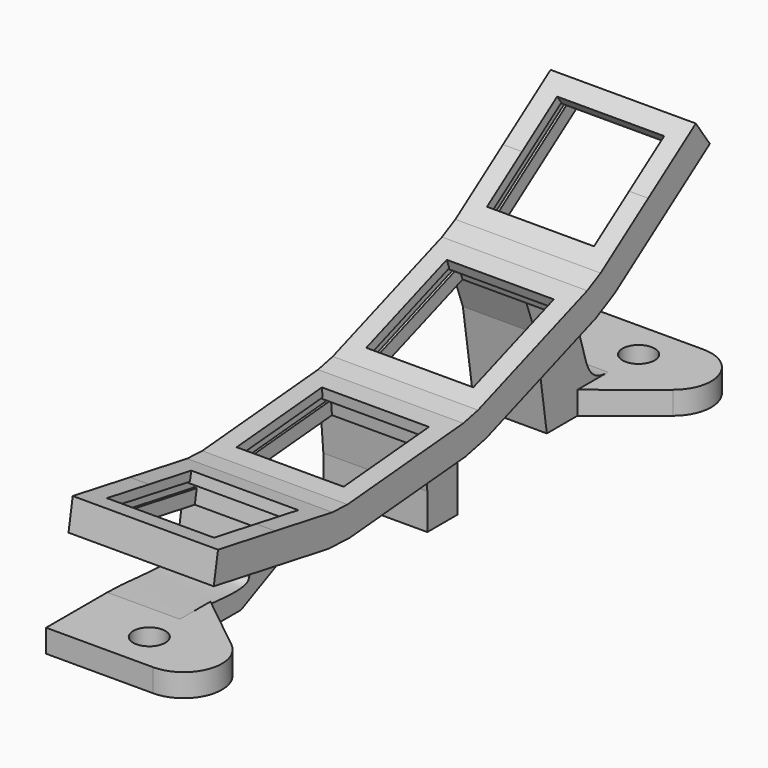
from build123d import *

# Parameters (mm, degrees)
PAD016_DEPTH      = 9.5
POCKET008_DEPTH   = 7
POCKET009_DEPTH   = 7.3
PAD017_DEPTH      = 4.1
PAD017_DEPTH_BACK = 9.5
PAD018_DEPTH      = 9.5
SKETCH031_R       = 2.1
PAD019_DEPTH      = 3


with BuildPart() as part:
    # Sketch026 → Pad016 (new body, symmetric)
    with BuildSketch(Plane.YZ):
        Polygon((47.4801846947, 33.7107123063), (39.698240274, 28.2617361609), (31.9162958532, 22.8127600156), (29.7273220428, 21.6732523754), (20.8002421453, 18.4240610138), (11.8731622478, 15.1748696522), (9.4638496319, 14.6407379046), (0, 13.8127583485), (-9.4638496319, 12.9847787924), (-11.9293103801, 13.0924231333), (-21.2849840337, 14.7420808212), (-30.6406576873, 16.391738509), (-31.335250398, 12.452507497), (-12.6239030908, 9.1531921213), (-9.1152266609, 9), (9.8124726029, 10.6559591122), (13.2412428211, 11.416099169), (31.0954026161, 17.9144818922), (34.2106015986, 19.5361518385), (49.7744904401, 30.4341041291), align=None)
    extrude(amount=PAD016_DEPTH, both=True)

    # Sketch027 → Pocket008 (cut, symmetric)
    with BuildSketch(Plane.YZ):
        Polygon((-28.1786383048, 15.9576180648), (-21.2849840337, 14.7420808212), (-14.3913297626, 13.5265435775), (-14.6344372114, 12.1478127233), (-13.3541871324, 11.9220700923), (-13.8056723944, 9.3615699345), (-21.9795767444, 10.8028498091), (-30.1534810944, 12.2441296838), (-29.7019958324, 14.8046298416), (-28.4217457535, 14.5788872106), align=None)
        Polygon((-6.9733628866, 13.2026681492), (0, 13.8127583485), (6.9733628866, 14.4228485477), (7.0953809265, 13.0281759704), (8.390434034, 13.1414784359), (8.6170389652, 10.5513722209), (0.348622971, 9.8279795561), (-7.9197930232, 9.1045868913), (-8.1463979543, 11.6946931063), (-6.8513448468, 11.8079955719), align=None)
        Polygon((14.2223937998, 16.0299200105), (20.8002421453, 18.4240610138), (27.3780904908, 20.818202017), (27.8569186914, 19.5026323479), (29.0785190985, 19.9472585343), (29.9677714711, 17.5040577202), (22.1683227186, 14.6652905306), (14.3688739661, 11.826523341), (13.4796215934, 14.2697241551), (14.7012220004, 14.7143503414), align=None)
        Polygon((33.964175964, 24.2467011065), (39.698240274, 28.2617361609), (45.432304584, 32.2767712154), (46.2353115949, 31.1299583534), (47.3002092525, 31.8756077207), (48.791507987, 29.7458124055), (41.9925460194, 24.9851279838), (35.1935840518, 20.2244435621), (33.7022853173, 22.3542388772), (34.7671829748, 23.0998882445), align=None)
    extrude(amount=POCKET008_DEPTH, both=True, mode=Mode.SUBTRACT)

    # Sketch028 → Pocket009 (cut, symmetric)
    with BuildSketch(Plane.YZ):
        Polygon((-28.387016118, 14.7758487612), (-14.5997075758, 12.3447742739), (-14.6344372114, 12.1478127233), (-13.3541871324, 11.9220700923), (-13.4931056746, 11.1342238899), (-29.8409143746, 14.0167836392), (-29.7019958324, 14.8046298416), (-28.4217457535, 14.5788872106), align=None)
        Polygon((-6.8687759953, 12.0072345115), (7.0779497779, 13.22741491), (7.0953809265, 13.0281759704), (8.390434034, 13.1414784359), (8.4601586282, 12.3445226775), (-8.0766733601, 10.8977373479), (-8.1463979543, 11.6946931063), (-6.8513448468, 11.8079955719), align=None)
        Polygon((14.6328179718, 14.9022888655), (27.7885146628, 19.6905708721), (27.8569186914, 19.5026323479), (29.0785190985, 19.9472585343), (29.3521352131, 19.1955044376), (13.7532377081, 13.5179700584), (13.4796215934, 14.2697241551), (14.7012220004, 14.7143503414), align=None)
        Polygon((34.6524676876, 23.2637186533), (46.1205963076, 31.2937887623), (46.2353115949, 31.1299583534), (47.3002092525, 31.8756077207), (47.7590704016, 31.2202860852), (34.1611464664, 21.6989172418), (33.7022853173, 22.3542388772), (34.7671829748, 23.0998882445), align=None)
    extrude(amount=POCKET009_DEPTH, both=True, mode=Mode.SUBTRACT)

    # Sketch029 → Pad017 (join, two sides)
    with BuildSketch(Plane.YZ) as pad017_sk:
        Polygon((9.4638496319, 14.6407379046), (9.8124726029, 10.6559591122), (10.3354070593, 4.6787909237), (10.3354070593, 0), (15.2933636811, 0), (15.2933636811, 5.7779434443), (13.2412428211, 11.416099169), (11.8731622478, 15.1748696522), align=None)
    extrude(amount=PAD017_DEPTH)
    extrude(pad017_sk.sketch, amount=-PAD017_DEPTH_BACK)

    # Sketch030 → Pad018 (join)
    with BuildSketch(Plane.YZ):
        with BuildLine():
            Line((-13.6657921568, 3.2443456032), (-12.6239030908, 9.1531921213))
            Line((-12.6239030908, 9.1531921213), (-11.9293103801, 13.0924231333))
            Line((-11.9293103801, 13.0924231333), (-9.4638496319, 12.9847787924))
            Line((-9.4638496319, 12.9847787924), (-9.1152266609, 9))
            Line((-9.1152266609, 9), (-8.5922922044, 3.0228318114))
            Line((-8.5922922044, 3.0228318114), (-15, 0))
            Line((-15, 0), (-25, 0))
            Line((-25, 0), (-25, 3))
            add(Edge.make_bspline(
                [(-13.6657921568, 3.2443456032), (-13.9496356176, 1.6345893441), (-20, 3), (-25, 3)],
                knots=[0, 0, 0, 0, 1, 1, 1, 1], degree=3))
        make_face()
        with BuildLine():
            Line((37.6520602167, 14.6212395727), (34.2106015986, 19.5361518385))
            Line((34.2106015986, 19.5361518385), (31.9162958532, 22.8127600156))
            Line((31.9162958532, 22.8127600156), (29.7273220428, 21.6732523754))
            Line((29.7273220428, 21.6732523754), (31.0954026161, 17.9144818922))
            Line((31.0954026161, 17.9144818922), (33.147523476, 12.2763261675))
            Line((33.147523476, 12.2763261675), (35, 0))
            Line((35, 0), (45, 0))
            Line((45, 0), (45, 3))
            add(Edge.make_bspline(
                [(37.6520602167, 14.6212395727), (42.2621193459, 8.0373928164), (40, 3), (45, 3)],
                knots=[0, 0, 0, 0, 1, 1, 1, 1], degree=3))
        make_face()
    extrude(amount=-PAD018_DEPTH)

    # Sketch031 → Pad019 (join)
    with BuildSketch(Plane.XY):
        with BuildLine():
            Line((7.6224992299, -26.0948753465), (0, -20))
            Line((0, -20), (0, -25))
            Line((0, -25), (-9.5, -25))
            Line((-9.5, -25), (-9.5, -35))
            Line((-9.5, -35), (4.5, -35))
            ThreePointArc((4.5, -35), (9.218348401, -31.6544450327), (7.6224992299, -26.0948753465))
        make_face()
        with Locations((0, -30)):
            Circle(SKETCH031_R, mode=Mode.SUBTRACT)
        with BuildLine():
            Line((0, 45), (-9.5, 45))
            Line((-9.5, 45), (-9.5, 55))
            Line((-9.5, 55), (4.5, 55))
            ThreePointArc((7.6224992299, 46.0948753465), (9.218348401, 51.6544450327), (4.5, 55))
            Line((7.6224992299, 46.0948753465), (0, 40))
            Line((0, 40), (0, 45))
        make_face()
        with Locations((0, 50)):
            Circle(SKETCH031_R, mode=Mode.SUBTRACT)
    extrude(amount=PAD019_DEPTH)


with BuildPart() as part_1:
    # Body004 placement: moved
    add(part.part.moved(Location((90, 0, 5))))


solid = part_1.part
